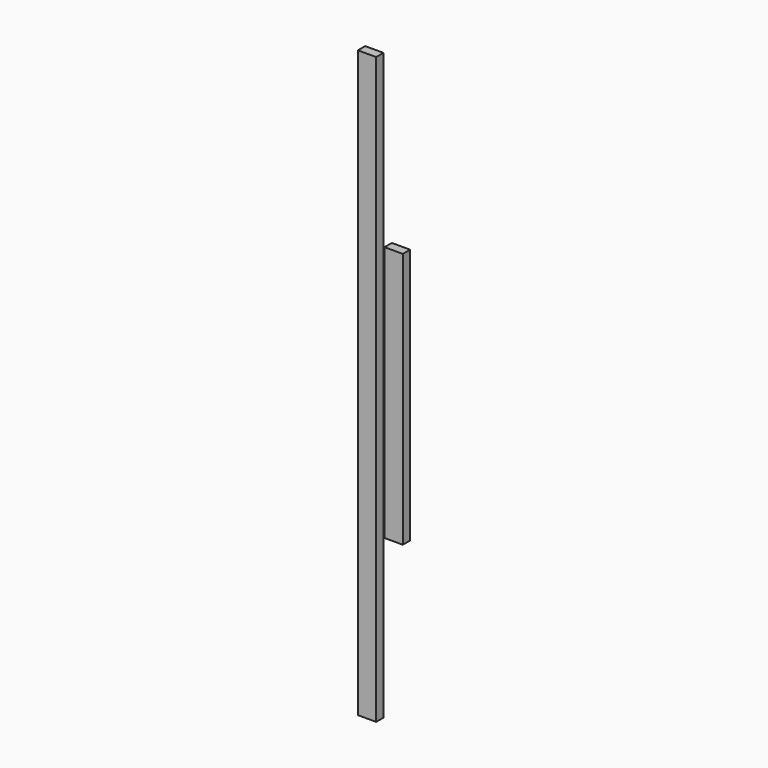
from build123d import *

# Parameters (mm, degrees)
F0_W     = 38.1
F0_H     = 19.05
F1_DEPTH = 609.6
F2_W     = 38.1
F2_H     = 19.05
F3_DEPTH = 266.7


with BuildPart() as f1:
    # F0 (on Top) → F1 (new body, symmetric)
    with BuildSketch(Plane.XY):
        Rectangle(F0_W, F0_H)
    extrude(amount=F1_DEPTH, both=True)


with BuildPart() as f3:
    # F2 (on Top) → F3 (new body, symmetric)
    with BuildSketch(Plane.XY):
        with Locations((55.536899, 0)):
            Rectangle(F2_W, F2_H)
    extrude(amount=F3_DEPTH, both=True)


solid = Compound([f1.part, f3.part])
